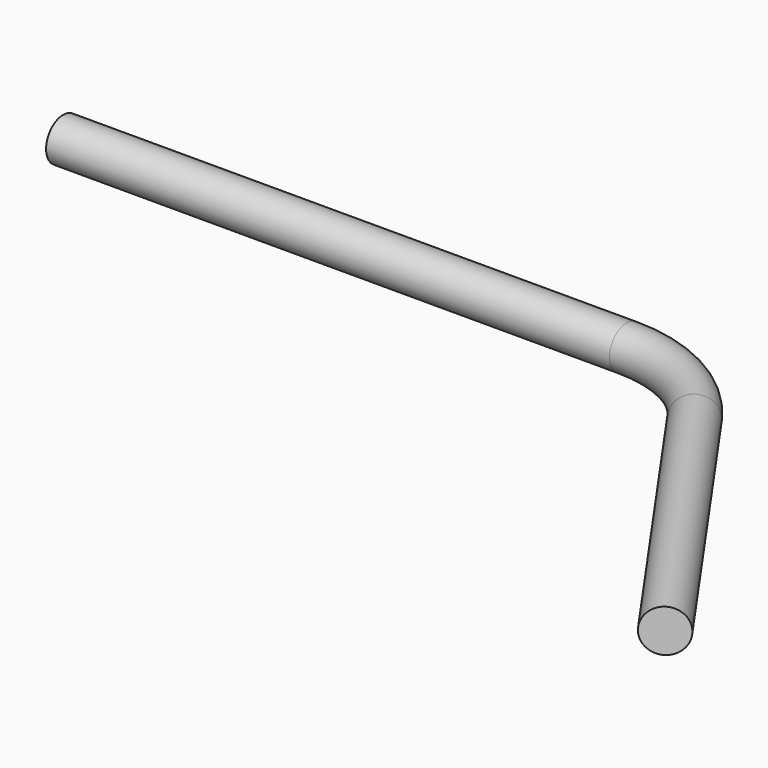
from build123d import *

# Parameters (mm, degrees)
F3_R = 1.5


with BuildPart() as f4:
    # F4: sweep along a path in F0
    with BuildLine(Plane.XY) as f4_path:
        Line((0, 0), (-14.519339, 20.735764))
        ThreePointArc((-14.519339, 20.735764), (-18.093373, 23.870108), (-22.710859, 25))
        Line((-22.710859, 25), (-62.305188, 25))
    # F3 (on face) → F4 (sweep)
    with BuildSketch(Plane(origin=(0, 0, 0), x_dir=(-0.819152, -0.573576, 0), z_dir=(-0.573576, 0.819152, 0))):
        Circle(F3_R)
    sweep(path=f4_path.line)


solid = f4.part
